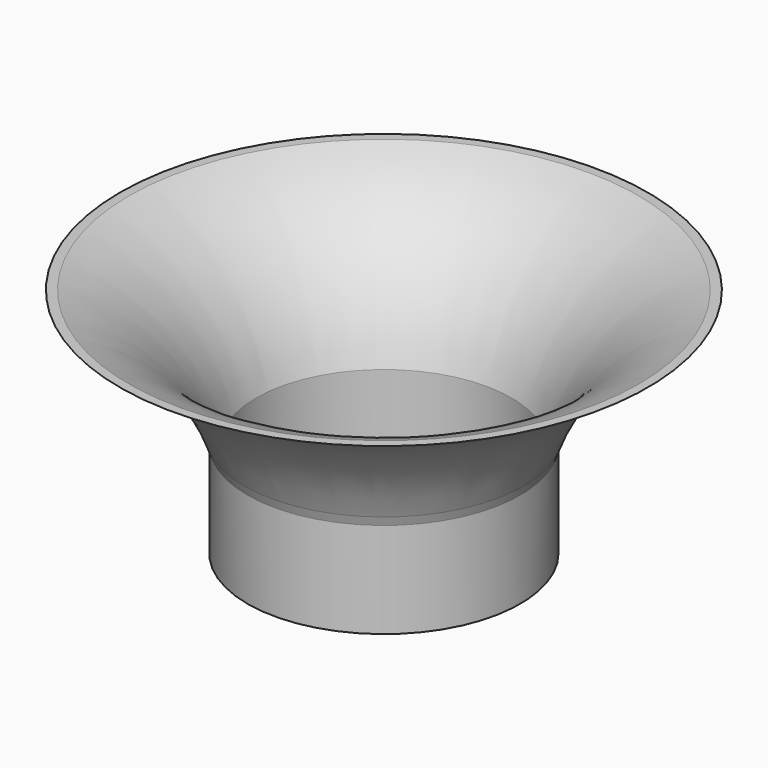
from build123d import *


with BuildPart() as f1:
    # F0 (on Front) → F1 (revolve)
    with BuildSketch(Plane.XZ):
        with BuildLine():
            ThreePointArc((0, 0), (-5.096418, 9.276676), (-14, 15))
            Line((-14, 15), (-15, 15))
            ThreePointArc((-15, 15), (-6.581159, 9.540535), (-1.314101, 1))
            Line((-1.314101, 1), (-0.970255, 0))
            Line((-0.970255, 0), (-0.970255, -10.510325))
            Line((-0.970255, -10.510325), (0, -10.510325))
            Line((0, -10.510325), (0, 0))
        make_face()
    revolve(axis=Axis((14.029745, 0, 7.5), (0, 0, 1)))


solid = f1.part
